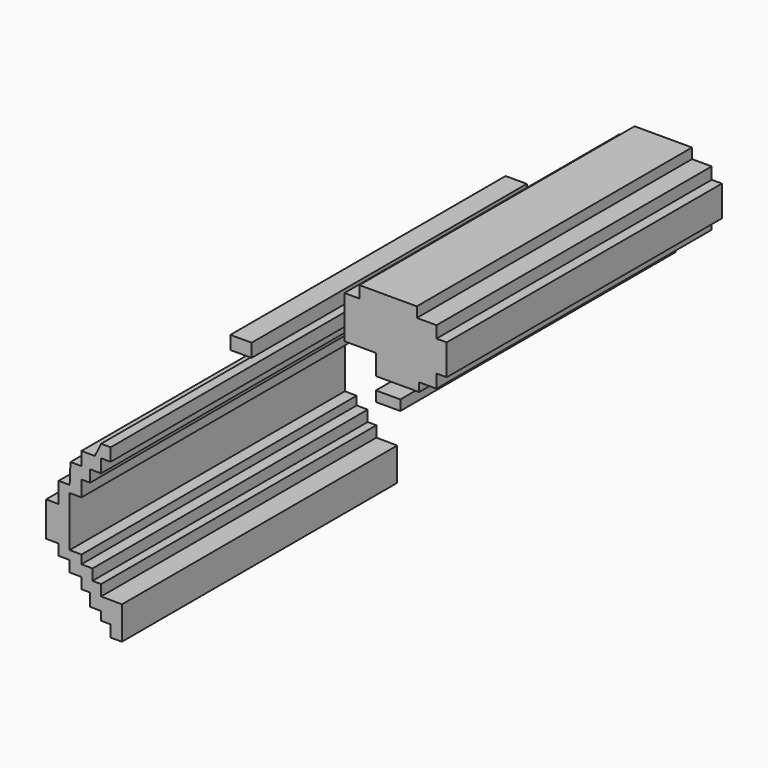
from build123d import *

# Parameters (mm, degrees)
F0_W     = 1.568383
F0_H     = 0.987499
F0_W_2   = 1.800734
F0_H_2   = 0.755146
F1_DEPTH = 25.4


with BuildPart() as f1:
    # F0 (on Front) → F1 (new body)
    with BuildSketch(Plane.XZ):
        with Locations((-26.345548, -14.373976)):
            Rectangle(F0_W, F0_H)
        Polygon((-13.362837, -8.303759), (-13.362837, -7.548613), (-17.603274, -7.548613), (-17.603274, -8.419936), (-18.706951, -8.419936), (-18.706951, -11.556698), (-17.603274, -11.556698), (-17.603274, -10.627287), (-18.126069, -10.627287), (-18.126069, -10.046406), (-17.196657, -10.046406), (-17.196657, -9.291259), (-16.383423, -9.291259), (-16.383423, -8.303759), (-14.117983, -8.303759), (-14.117983, -9.291259), (-13.188573, -9.291259), (-13.188573, -10.046406), (-12.549602, -10.046406), (-12.549602, -10.743463), (-13.188573, -10.743463), (-13.188573, -11.614786), (-14.059896, -11.614786), (-14.059896, -12.398977), (-16.383423, -12.398977), (-16.383423, -13.066991), (-13.188573, -13.066991), (-13.188573, -12.428021), (-11.910632, -12.428021), (-11.910632, -11.440522), (-11.155485, -11.440522), (-11.155485, -9.697876), (-11.155485, -9.175083), (-11.910632, -9.175083), (-11.910632, -8.303759), align=None)
        with Locations((-15.483056, -14.373976)):
            Rectangle(F0_W_2, F0_H_2)
        Polygon((-17.603274, -10.627287), (-17.603274, -11.556698), (-17.196657, -11.556698), (-16.383423, -11.556698), (-16.383423, -12.398977), (-14.059896, -12.398977), (-14.059896, -11.614786), (-13.188573, -11.614786), (-13.188573, -10.743463), (-12.549602, -10.743463), (-12.549602, -10.046406), (-13.188573, -10.046406), (-13.188573, -9.291259), (-14.117983, -9.291259), (-14.117983, -8.303759), (-16.383423, -8.303759), (-16.383423, -9.291259), (-17.196657, -9.291259), (-17.196657, -10.046406), (-18.126069, -10.046406), (-18.126069, -10.627287), align=None)
        Polygon((-35.593046, -36.436006), (-35.130892, -36.429105), (-35.130892, -33.998948), (-36.671974, -33.988171), (-36.671974, -33.185713), (-37.308956, -33.181259), (-37.308956, -32.372478), (-38.122182, -32.366792), (-38.122182, -31.733509), (-38.994315, -31.72741), (-38.994315, -28.520677), (-38.994315, -28.015865), (-38.122182, -28.021964), (-38.122182, -26.854102), (-38.122182, -25.988463), (-38.935117, -25.982779), (-38.994315, -27.493071), (-39.805927, -27.487395), (-39.805927, -29.003365), (-40.735739, -28.996863), (-40.735739, -31.559244), (-39.804388, -31.565757), (-39.804388, -32.366792), (-38.994315, -32.372456), (-38.994315, -33.185713), (-38.122182, -33.191812), (-38.122182, -33.988171), (-37.484909, -33.992627), (-37.484909, -34.928359), (-36.671974, -34.934044), (-36.671974, -35.567332), (-35.971835, -35.572228), (-35.971835, -36.433357), align=None)
        Polygon((-38.122182, -25.988463), (-38.122182, -26.854102), (-37.484909, -26.858558), (-37.484909, -25.982779), (-36.671974, -25.988463), (-36.671974, -25.003754), (-35.971835, -25.00865), (-35.971835, -24.065867), (-36.671974, -24.060971), (-37.134722, -25.003754), (-38.122182, -24.996848), align=None)
    extrude(amount=F1_DEPTH)


solid = f1.part
